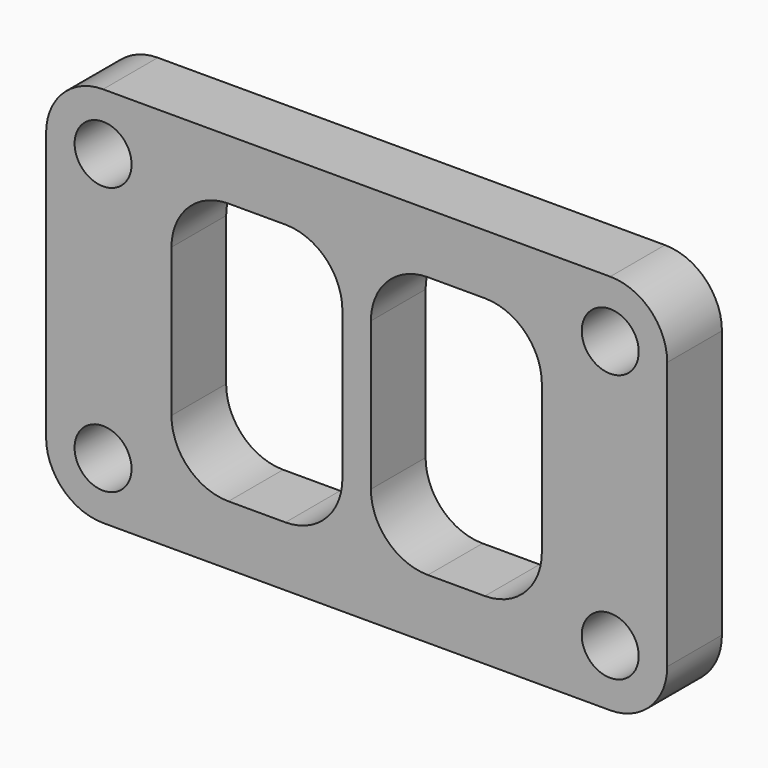
from build123d import *

# Parameters (mm, degrees)
F0_R     = 5
F1_DEPTH = 12


with BuildPart() as f1:
    # F0 (on Front) → F1 (new body)
    with BuildSketch(Plane.XZ):
        with BuildLine():
            Line((44.5, 33.5), (-44.5, 33.5))
            ThreePointArc((-44.5, 33.5), (-51.571068, 30.571068), (-54.5, 23.5))
            Line((-54.5, 23.5), (-54.5, -23.5))
            ThreePointArc((-54.5, -23.5), (-51.571068, -30.571068), (-44.5, -33.5))
            Line((-44.5, -33.5), (44.5, -33.5))
            ThreePointArc((44.5, -33.5), (51.571068, -30.571068), (54.5, -23.5))
            Line((54.5, -23.5), (54.5, 23.5))
            ThreePointArc((54.5, 23.5), (51.571068, 30.571068), (44.5, 33.5))
        make_face()
        with Locations((-44.5, -23.5)):
            Circle(F0_R, mode=Mode.SUBTRACT)
        with Locations((44.5, -23.5)):
            Circle(F0_R, mode=Mode.SUBTRACT)
        with BuildLine():
            Line((-2.5, 13), (-2.5, 0))
            Line((-2.5, 0), (-2.5, -13))
            ThreePointArc((-2.5, -13), (-5.428932, -20.071068), (-12.5, -23))
            Line((-12.5, -23), (-22.5, -23))
            ThreePointArc((-22.5, -23), (-29.571068, -20.071068), (-32.5, -13))
            Line((-32.5, -13), (-32.5, 0))
            Line((-32.5, 0), (-32.5, 13))
            ThreePointArc((-32.5, 13), (-29.571068, 20.071068), (-22.5, 23))
            Line((-22.5, 23), (-12.5, 23))
            ThreePointArc((-12.5, 23), (-5.428932, 20.071068), (-2.5, 13))
        make_face(mode=Mode.SUBTRACT)
        with Locations((-44.5, 23.5)):
            Circle(F0_R, mode=Mode.SUBTRACT)
        with BuildLine():
            ThreePointArc((22.5, 23), (29.571068, 20.071068), (32.5, 13))
            Line((32.5, 13), (32.5, -13))
            ThreePointArc((32.5, -13), (29.571068, -20.071068), (22.5, -23))
            Line((22.5, -23), (12.5, -23))
            ThreePointArc((12.5, -23), (5.428932, -20.071068), (2.5, -13))
            Line((2.5, -13), (2.5, 0))
            Line((2.5, 0), (2.5, 13))
            ThreePointArc((2.5, 13), (5.428932, 20.071068), (12.5, 23))
            Line((12.5, 23), (22.5, 23))
        make_face(mode=Mode.SUBTRACT)
        with Locations((44.5, 23.5)):
            Circle(F0_R, mode=Mode.SUBTRACT)
    extrude(amount=F1_DEPTH)


solid = f1.part
